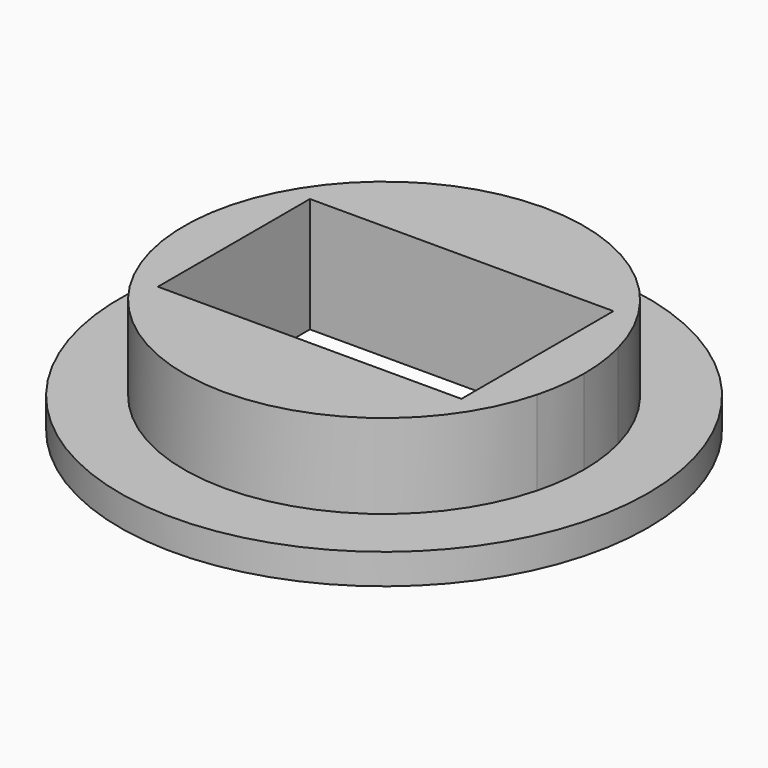
from build123d import *

# Parameters (mm, degrees)
F0_R     = 0.5
F1_DEPTH = 8.7
F0_R_2   = 20
F2_DEPTH = 2.3
F3_DEPTH = 3


with BuildPart() as f1:
    # F0 (on Top) → F1 (new body)
    with BuildSketch(Plane.XY):
        with BuildLine():
            Line((-52.2276436281, 24.9724070162), (-52.2276436281, 28.9724070162))
            Line((-52.2276436281, 28.9724070162), (-54.2276436281, 28.9724070162))
            ThreePointArc((-54.2276436281, 28.9724070162), (-54.8130678601, 28.9293349241), (-55.3858843689, 28.8010462505))
            ThreePointArc((-55.3858843689, 28.8010462505), (-55.8776436281, 24.9724070162), (-55.3858843689, 21.1437677818))
            ThreePointArc((-55.3858843689, 21.1437677818), (-54.8130678601, 21.0154791082), (-54.2276436281, 20.9724070162))
            Line((-54.2276436281, 20.9724070162), (-52.2276436281, 20.9724070162))
            Line((-52.2276436281, 20.9724070162), (-52.2276436281, 24.9724070162))
        make_face()
        with Locations((-54.2276436281, 24.9724070162)):
            Circle(F0_R, mode=Mode.SUBTRACT)
        with Locations((-54.2276436281, 24.9724070162)):
            Circle(F0_R)
        with BuildLine():
            Line((-27.2276436281, 28.9724070162), (-29.2276436281, 28.9724070162))
            Line((-29.2276436281, 28.9724070162), (-29.2276436281, 24.9724070162))
            Line((-29.2276436281, 24.9724070162), (-29.2276436281, 20.9724070162))
            Line((-29.2276436281, 20.9724070162), (-27.2276436281, 20.9724070162))
            ThreePointArc((-27.2276436281, 20.9724070162), (-26.6422193961, 21.0154791082), (-26.0694028874, 21.1437677818))
            ThreePointArc((-26.0694028874, 21.1437677818), (-25.7010863507, 23.0423613201), (-25.5776436281, 24.9724070162))
            ThreePointArc((-25.5776436281, 24.9724070162), (-25.7010863507, 26.9024527122), (-26.0694028874, 28.8010462505))
            ThreePointArc((-26.0694028874, 28.8010462505), (-26.6422193961, 28.9293349241), (-27.2276436281, 28.9724070162))
        make_face()
        with BuildLine():
            ThreePointArc((-26.7276436281, 24.9724070162), (-27.2276436281, 24.4724070162), (-27.7276436281, 24.9724070162))
            ThreePointArc((-27.7276436281, 24.9724070162), (-27.2276436281, 25.4724070162), (-26.7276436281, 24.9724070162))
        make_face(mode=Mode.SUBTRACT)
        with BuildLine():
            ThreePointArc((-26.7276436281, 24.9724070162), (-27.2276436281, 25.4724070162), (-27.7276436281, 24.9724070162))
            ThreePointArc((-27.7276436281, 24.9724070162), (-27.2276436281, 24.4724070162), (-26.7276436281, 24.9724070162))
        make_face()
        with BuildLine():
            Line((-52.2276436281, 17.9224070162), (-52.2276436281, 20.9724070162))
            Line((-52.2276436281, 20.9724070162), (-54.2276436281, 20.9724070162))
            ThreePointArc((-54.2276436281, 20.9724070162), (-54.8130678601, 21.0154791082), (-55.3858843689, 21.1437677818))
            ThreePointArc((-55.3858843689, 21.1437677818), (-40.7276436281, 9.8224070162), (-26.0694028874, 21.1437677818))
            ThreePointArc((-26.0694028874, 21.1437677818), (-26.6422193961, 21.0154791082), (-27.2276436281, 20.9724070162))
            Line((-27.2276436281, 20.9724070162), (-29.2276436281, 20.9724070162))
            Line((-29.2276436281, 20.9724070162), (-29.2276436281, 17.9224070162))
            Line((-29.2276436281, 17.9224070162), (-52.2276436281, 17.9224070162))
        make_face()
        with BuildLine():
            Line((-52.2276436281, 28.9724070162), (-52.2276436281, 32.3224070162))
            Line((-52.2276436281, 32.3224070162), (-29.2276436281, 32.3224070162))
            Line((-29.2276436281, 32.3224070162), (-29.2276436281, 28.9724070162))
            Line((-29.2276436281, 28.9724070162), (-27.2276436281, 28.9724070162))
            ThreePointArc((-27.2276436281, 28.9724070162), (-26.6422193961, 28.9293349241), (-26.0694028874, 28.8010462505))
            ThreePointArc((-26.0694028874, 28.8010462505), (-40.7276436281, 40.1224070162), (-55.3858843689, 28.8010462505))
            ThreePointArc((-55.3858843689, 28.8010462505), (-54.8130678601, 28.9293349241), (-54.2276436281, 28.9724070162))
            Line((-54.2276436281, 28.9724070162), (-52.2276436281, 28.9724070162))
        make_face()
    extrude(amount=F1_DEPTH)

    # F0 (on Top) → F2 (join)
    with BuildSketch(Plane.XY):
        with Locations((-40.7276436281, 24.9724070162)):
            Circle(F0_R_2)
        with BuildLine():
            ThreePointArc((-55.3858843689, 21.1437677818), (-58.2276436281, 24.9724070162), (-55.3858843689, 28.8010462505))
            ThreePointArc((-55.3858843689, 28.8010462505), (-40.7276436281, 40.1224070162), (-26.0694028874, 28.8010462505))
            ThreePointArc((-26.0694028874, 28.8010462505), (-23.2276436281, 24.9724070162), (-26.0694028874, 21.1437677818))
            ThreePointArc((-26.0694028874, 21.1437677818), (-40.7276436281, 9.8224070162), (-55.3858843689, 21.1437677818))
        make_face(mode=Mode.SUBTRACT)
        with BuildLine():
            ThreePointArc((-55.3858843689, 21.1437677818), (-55.8776436281, 24.9724070162), (-55.3858843689, 28.8010462505))
            ThreePointArc((-55.3858843689, 28.8010462505), (-58.2276436281, 24.9724070162), (-55.3858843689, 21.1437677818))
        make_face()
        with BuildLine():
            ThreePointArc((-26.0694028874, 21.1437677818), (-23.2276436281, 24.9724070162), (-26.0694028874, 28.8010462505))
            ThreePointArc((-26.0694028874, 28.8010462505), (-25.7010863507, 26.9024527122), (-25.5776436281, 24.9724070162))
            ThreePointArc((-25.5776436281, 24.9724070162), (-25.7010863507, 23.0423613201), (-26.0694028874, 21.1437677818))
        make_face()
    extrude(amount=F2_DEPTH)

    # F0 (on Top) → F3 (cut)
    with BuildSketch(Plane.XY):
        with Locations((-54.2276436281, 24.9724070162)):
            Circle(F0_R)
        with BuildLine():
            ThreePointArc((-26.7276436281, 24.9724070162), (-27.2276436281, 25.4724070162), (-27.7276436281, 24.9724070162))
            ThreePointArc((-27.7276436281, 24.9724070162), (-27.2276436281, 24.4724070162), (-26.7276436281, 24.9724070162))
        make_face()
    extrude(amount=F3_DEPTH, mode=Mode.SUBTRACT)


solid = f1.part
